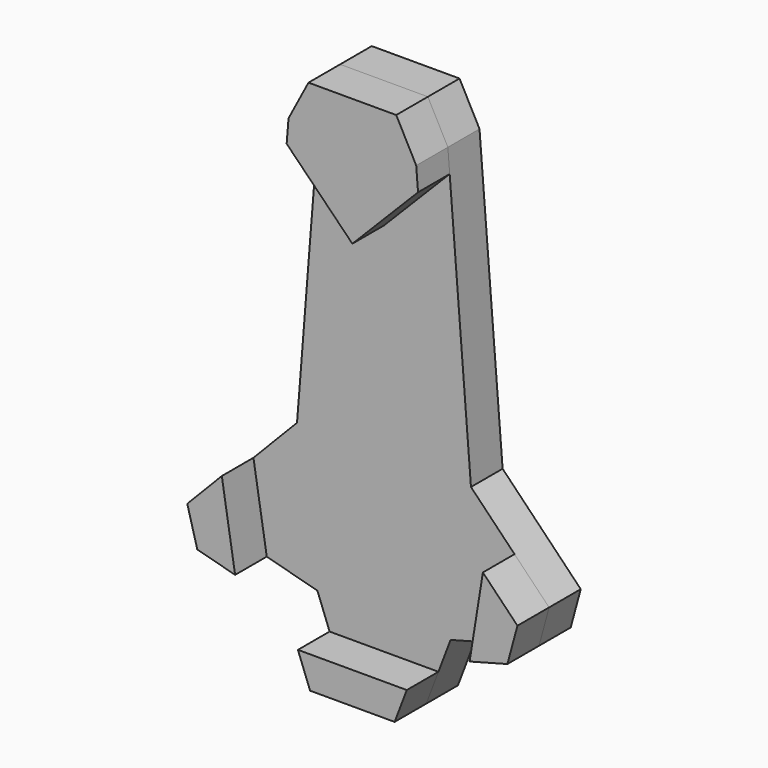
from build123d import *

# Parameters (mm, degrees)
F1_DEPTH = 2.54
F3_DEPTH = 2.54
F5_DEPTH = 2.54


with BuildPart() as f1:
    # F0 (on Front) → F1 (new body)
    with BuildSketch(Plane.XZ):
        Polygon((-4.275133, -17.600922), (-2.713893, -21.713564), (2.713893, -21.713564), (4.275133, -17.600922), (9.956317, -16.085941), (10.600286, -13.709481), (5.584135, -8.534087), (4.099877, 10.191229), (2.817419, 12.624688), (-2.817419, 12.624688), (-4.099877, 10.191229), (-5.584135, -8.534087), (-10.600286, -13.709481), (-9.956317, -16.085941), align=None)
    extrude(amount=F1_DEPTH)


with BuildPart() as f3:
    # F2 (on face) → F3 (new body)
    with BuildSketch(Plane.XZ.offset(2.54)):
        Polygon((4.099877, 10.191229), (2.817419, 12.624688), (-2.817419, 12.624688), (-4.099877, 10.191229), (-4.217101, 8.712332), (0, 4.434315), (4.217101, 8.712332), align=None)
    extrude(amount=F3_DEPTH)


with BuildPart() as f5:
    # F4 (on face) → F5 (new body)
    with BuildSketch(Plane.XZ.offset(2.54)):
        Polygon((-7.527774, -16.733552), (-8.381844, -11.420613), (-10.600286, -13.709481), (-9.956317, -16.085941), align=None)
        Polygon((7.527774, -16.733552), (9.956317, -16.085941), (10.600286, -13.709481), (8.381844, -11.420613), align=None)
        Polygon((-3.494513, -19.657243), (-2.713893, -21.713564), (2.713893, -21.713564), (3.494513, -19.657243), align=None)
    extrude(amount=F5_DEPTH)


solid = Compound([f1.part, f3.part, f5.part])
